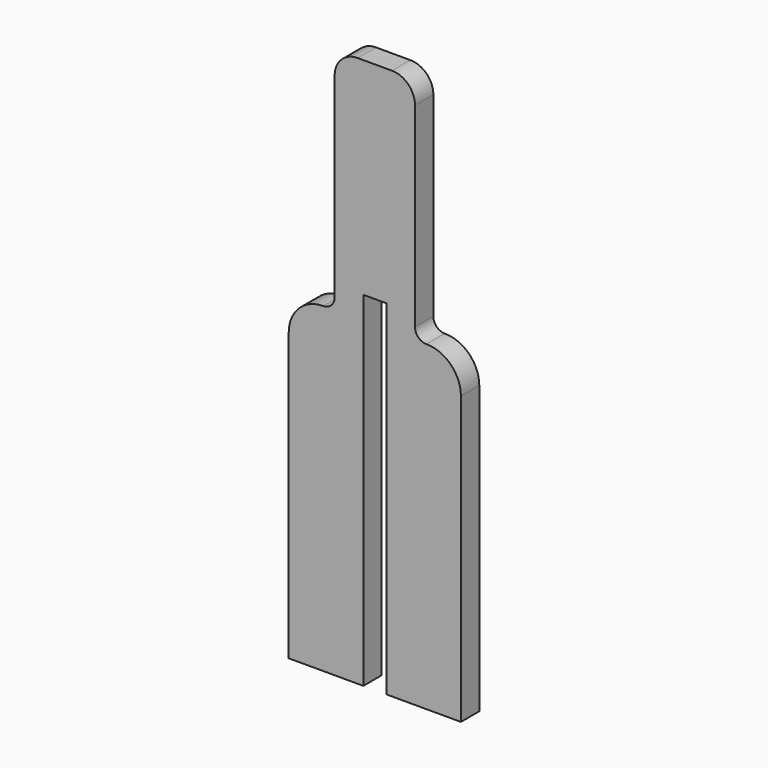
from build123d import *

# Parameters (mm, degrees)
F1_DEPTH = 3.175


with BuildPart() as f1:
    # F0 (on Front) → F1 (new body, symmetric)
    with BuildSketch(Plane.XZ):
        with BuildLine():
            Line((4.7625, 107.95), (-4.7625, 107.95))
            ThreePointArc((-4.7625, 107.95), (-9.252628, 106.090128), (-11.1125, 101.6))
            Line((-11.1125, 101.6), (-11.1125, 47.625))
            ThreePointArc((-11.1125, 47.625), (-12.042436, 45.379936), (-14.2875, 44.45))
            ThreePointArc((-14.2875, 44.45), (-21.022692, 41.660192), (-23.8125, 34.925))
            Line((-23.8125, 34.925), (-23.8125, -44.45))
            Line((-23.8125, -44.45), (-3.175, -44.45))
            Line((-3.175, -44.45), (-3.175, 50.8))
            Line((-3.175, 50.8), (3.175, 50.8))
            Line((3.175, 50.8), (3.175, -44.45))
            Line((3.175, -44.45), (23.8125, -44.45))
            Line((23.8125, -44.45), (23.8125, 34.925))
            ThreePointArc((23.8125, 34.925), (21.022692, 41.660192), (14.2875, 44.45))
            ThreePointArc((14.2875, 44.45), (12.042436, 45.379936), (11.1125, 47.625))
            Line((11.1125, 47.625), (11.1125, 101.6))
            ThreePointArc((11.1125, 101.6), (9.252628, 106.090128), (4.7625, 107.95))
        make_face()
    extrude(amount=F1_DEPTH, both=True)


solid = f1.part
